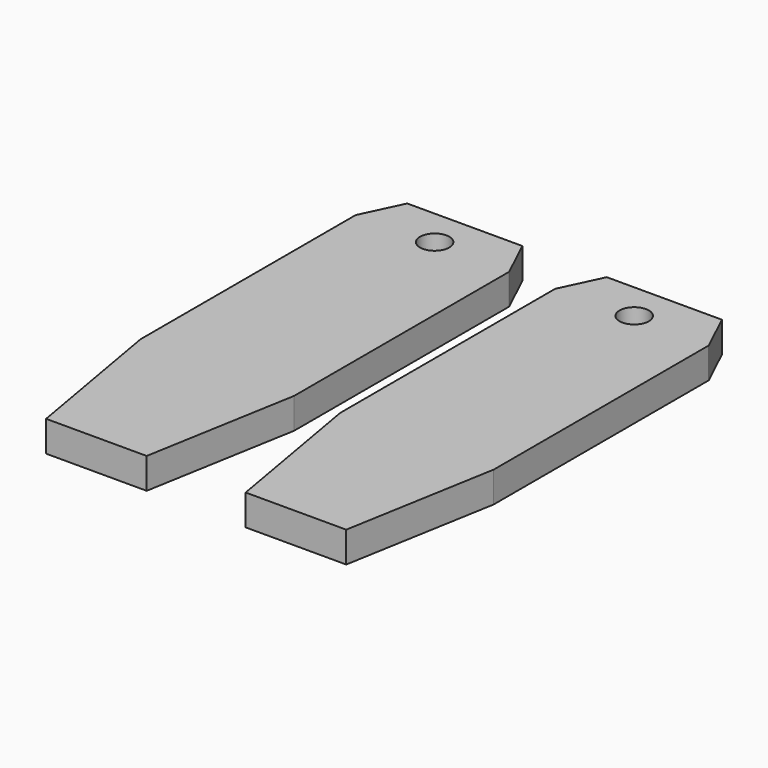
from build123d import *

# Parameters (mm, degrees)
F0_R     = 1.91
F1_DEPTH = 4


with BuildPart() as f1:
    # F0 (on Top) → F1 (new body)
    with BuildSketch(Plane.XY):
        Polygon((-6.552568, -30), (6.552568, -30), (10, -10.29936), (10, 24.721002), (7.5, 30), (-7.5, 30), (-10, 24.721002), (-10, -10.29936), align=None)
        with Locations((0, 25.09)):
            Circle(F0_R, mode=Mode.SUBTRACT)
    extrude(amount=F1_DEPTH)


with BuildPart() as f3_1:
    # F3: instance of F1
    add(f1.part.mirror(Plane.YZ.offset(13)))


solid = Compound([f1.part, f3_1.part])
